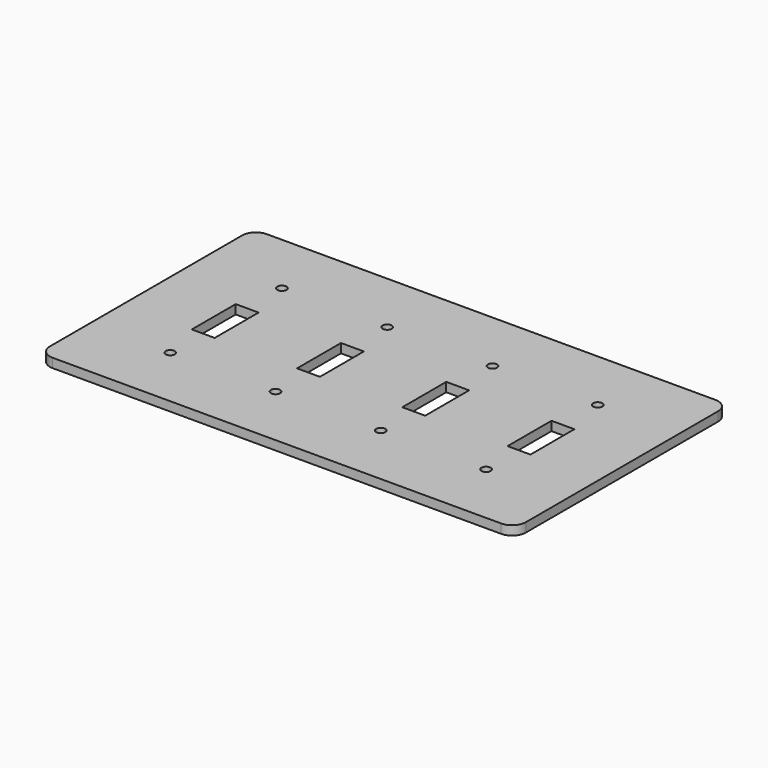
from build123d import *

# Parameters (mm, degrees)
F0_W     = 208
F0_H     = 117
F0_R     = 2
F0_W_2   = 10
F0_H_2   = 24
F1_DEPTH = 4
F2_R     = 6


with BuildPart() as f1:
    # F0 (on Top) → F1 (new body)
    with BuildSketch(Plane.XY):
        with Locations((104, 58.5)):
            Rectangle(F0_W, F0_H)
        with Locations((35, 28)):
            Circle(F0_R, mode=Mode.SUBTRACT)
        with Locations((81, 28)):
            Circle(F0_R, mode=Mode.SUBTRACT)
        with Locations((35, 58)):
            Rectangle(F0_W_2, F0_H_2, mode=Mode.SUBTRACT)
        with Locations((81, 58)):
            Rectangle(F0_W_2, F0_H_2, mode=Mode.SUBTRACT)
        with Locations((127, 28)):
            Circle(F0_R, mode=Mode.SUBTRACT)
        with Locations((173, 28)):
            Circle(F0_R, mode=Mode.SUBTRACT)
        with Locations((127, 58)):
            Rectangle(F0_W_2, F0_H_2, mode=Mode.SUBTRACT)
        with Locations((173, 58)):
            Rectangle(F0_W_2, F0_H_2, mode=Mode.SUBTRACT)
        with Locations((35, 89)):
            Circle(F0_R, mode=Mode.SUBTRACT)
        with Locations((81, 89)):
            Circle(F0_R, mode=Mode.SUBTRACT)
        with Locations((127, 89)):
            Circle(F0_R, mode=Mode.SUBTRACT)
        with Locations((173, 89)):
            Circle(F0_R, mode=Mode.SUBTRACT)
    extrude(amount=F1_DEPTH)

    # F2
    f2_edges = [f1.edges().sort_by_distance(p)[0] for p in [
        (0, 117, 2),
        (208, 117, 2),
        (208, 0, 2),
        (0, 0, 2),
    ]]
    fillet(f2_edges, radius=F2_R)


solid = f1.part
